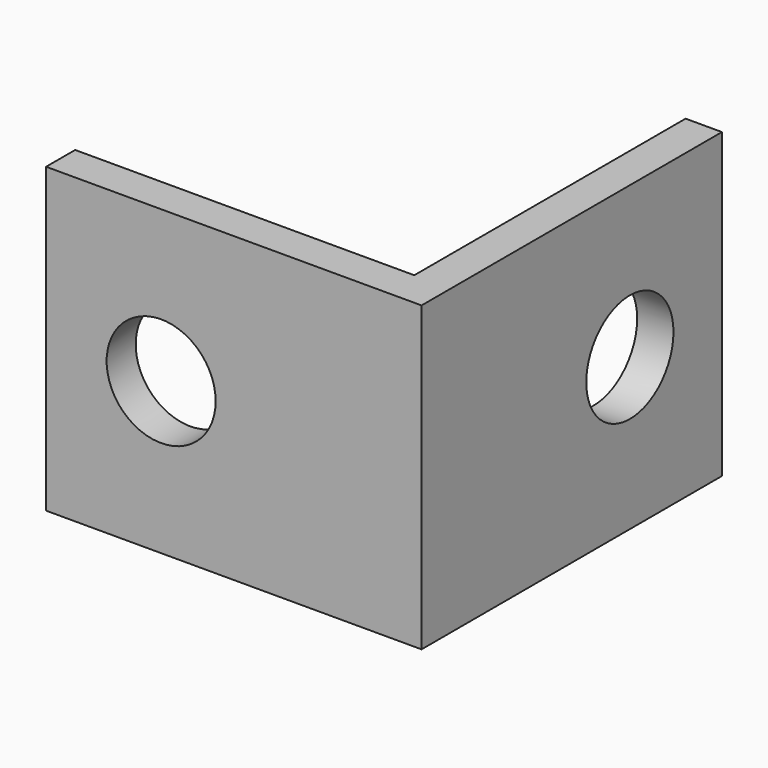
from build123d import *

# Parameters (mm, degrees)
F2_DEPTH = 25
F3_R     = 4.5
F4_DEPTH = 3
F5_R     = 4.5
F6_DEPTH = 3


with BuildPart() as f2:
    # F1 (on Top) → F2 (new body)
    with BuildSketch(Plane.XY):
        Polygon((-31, 0), (0, 0), (0, 31), (-3, 31), (-3, 3), (-31, 3), align=None)
    extrude(amount=F2_DEPTH)

    # F3 (on face) → F4 (cut, through all)
    with BuildSketch(Plane.XZ):
        with Locations((-21.5, 12.5)):
            Circle(F3_R)
    extrude(amount=-F4_DEPTH, mode=Mode.SUBTRACT)

    # F5 (on face) → F6 (cut, through all)
    with BuildSketch(Plane.YZ):
        with Locations((21.5, 12.5)):
            Circle(F5_R)
    extrude(amount=-F6_DEPTH, mode=Mode.SUBTRACT)


solid = f2.part
